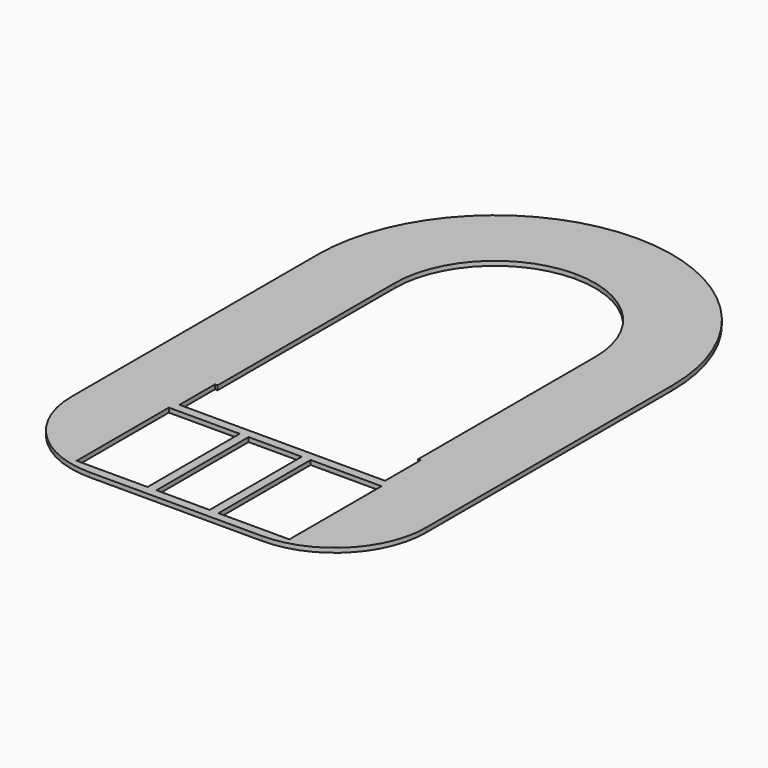
from build123d import *

# Parameters (mm, degrees)
SKETCH_W  = 80
SKETCH_H  = 130
PAD_DEPTH = 5


with BuildPart() as part:
    # Sketch → Pad (new body)
    with BuildSketch(Plane.XY):
        with BuildLine():
            ThreePointArc((200, 3e-06), (141.421355, 141.421357), (0, 200))
            ThreePointArc((0, 200), (-141.421355, 141.421357), (-200, 3e-06))
            Line((-200, 3e-06), (-200, -347.34))
            ThreePointArc((-200, -347.34), (-169.931582, -419.931582), (-97.340001, -450))
            Line((0, -450), (-97.340001, -450))
            Line((0, -450), (97.340001, -450))
            ThreePointArc((97.340001, -450), (169.931582, -419.931582), (200, -347.34))
            Line((200, 3e-06), (200, -347.34))
        make_face()
        with BuildLine():
            Line((0, -300), (116, -300))
            Line((116, -300), (116, -250))
            Line((116, -250), (113, -250))
            Line((113, -250), (113, -0.000123))
            ThreePointArc((113, -0.000123), (79.90311, 79.903023), (0, 113))
            ThreePointArc((0, 113), (-79.90311, 79.903023), (-113, -0.000123))
            Line((-113, -250), (-113, -0.000123))
            Line((-116, -250), (-113, -250))
            Line((-116, -300), (-116, -250))
            Line((0, -300), (-116, -300))
        make_face(mode=Mode.SUBTRACT)
        with Locations((80, -375)):
            Rectangle(SKETCH_W, SKETCH_H, mode=Mode.SUBTRACT)
        Polygon((0, -310), (30, -310), (30, -440), (0, -440), (-30, -440), (-30, -310), align=None, mode=Mode.SUBTRACT)
        with Locations((-80, -375)):
            Rectangle(SKETCH_W, SKETCH_H, mode=Mode.SUBTRACT)
    extrude(amount=PAD_DEPTH)


solid = part.part
